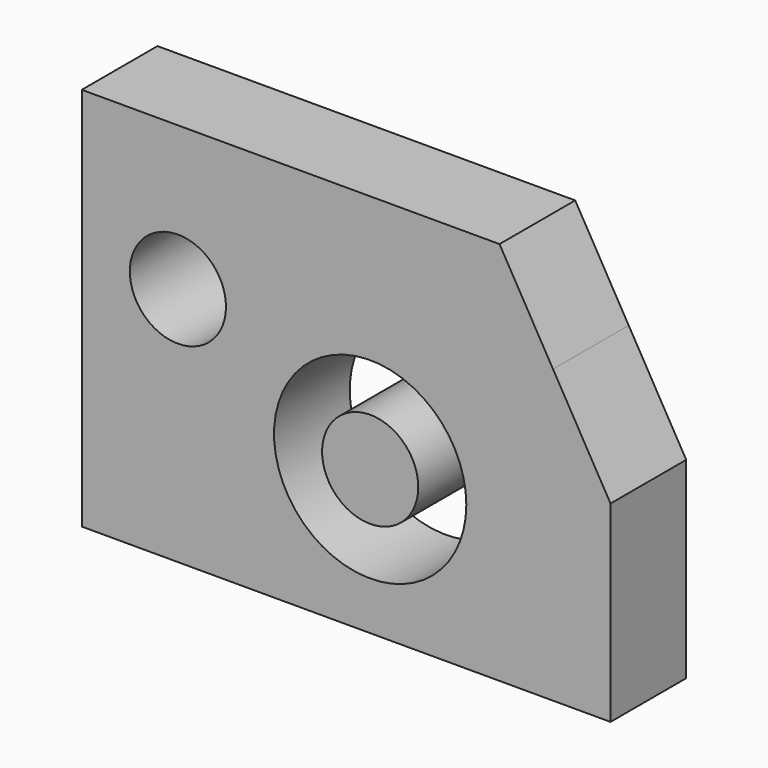
from build123d import *

# Parameters (mm, degrees)
F0_R     = 25.4
F0_R_2   = 12.7
F1_DEPTH = 25


with BuildPart() as f1:
    # F0 (on Front) → F1 (new body)
    with BuildSketch(Plane.XZ):
        Polygon((-50.8, 50.8), (-76.2, 50.8), (-76.2, 12.7), (-76.2, -50.8), (0, -50.8), (63.5, -50.8), (63.5, 0), (48.305189, 26.318185), (34.170606, 50.8), align=None)
        with Locations((0, -12.7)):
            Circle(F0_R, mode=Mode.SUBTRACT)
        with Locations((-50.8, 12.7)):
            Circle(F0_R_2, mode=Mode.SUBTRACT)
        with Locations((0, -12.7)):
            Circle(F0_R_2)
    extrude(amount=F1_DEPTH)


solid = f1.part
